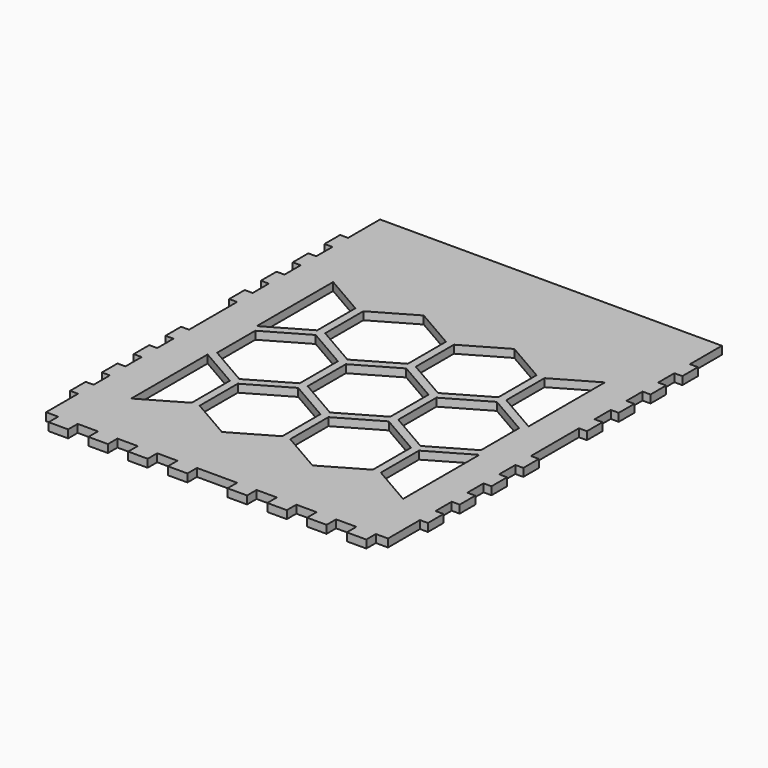
from build123d import *

# Parameters (mm, degrees)
F0_W     = 2
F0_H     = 4.9
F0_W_2   = 4.9
F0_H_2   = 3
F2_DEPTH = 2
F3_DEPTH = 12.5


with BuildPart() as f2:
    # F0 (on Top) → F2 (new body)
    with BuildSketch(Plane.XY):
        with Locations((44, -20)):
            Rectangle(F0_W, F0_H)
        with Locations((-7.5, -54)):
            Rectangle(F0_W_2, F0_H_2)
        with Locations((44, 30)):
            Rectangle(F0_W, F0_H)
        with Locations((17.5, -54)):
            Rectangle(F0_W_2, F0_H_2)
        with Locations((44, 20)):
            Rectangle(F0_W, F0_H)
        with Locations((-44, 30)):
            Rectangle(F0_W, F0_H)
        with Locations((-44, -30)):
            Rectangle(F0_W, F0_H)
        with Locations((44, 10)):
            Rectangle(F0_W, F0_H)
        with Locations((-44, 40)):
            Rectangle(F0_W, F0_H)
        with Locations((-44, -40)):
            Rectangle(F0_W, F0_H)
        with Locations((44, -10)):
            Rectangle(F0_W, F0_H)
        with Locations((-44, 20)):
            Rectangle(F0_W, F0_H)
        with Locations((-44, -20)):
            Rectangle(F0_W, F0_H)
        with Locations((44, 40)):
            Rectangle(F0_W, F0_H)
        with Locations((-44, 10)):
            Rectangle(F0_W, F0_H)
        with Locations((-44, -10)):
            Rectangle(F0_W, F0_H)
        with Locations((-27.5, -54)):
            Rectangle(F0_W_2, F0_H_2)
        with Locations((7.5, -54)):
            Rectangle(F0_W_2, F0_H_2)
        with Locations((-17.5, -54)):
            Rectangle(F0_W_2, F0_H_2)
        with Locations((-37.5, -54)):
            Rectangle(F0_W_2, F0_H_2)
        Polygon((43, 52.5), (-43, 52.5), (-43, 42.45), (-43, 37.55), (-43, 32.45), (-43, 27.55), (-43, 22.45), (-43, 17.55), (-43, 12.45), (-43, 7.55), (-43, -7.55), (-43, -12.45), (-43, -17.55), (-43, -22.45), (-43, -27.55), (-43, -32.45), (-43, -37.55), (-43, -42.45), (-43, -52.5), (-39.95, -52.5), (-35.05, -52.5), (-29.95, -52.5), (-25.05, -52.5), (-19.95, -52.5), (-15.05, -52.5), (-9.95, -52.5), (-5.05, -52.5), (5.05, -52.5), (9.95, -52.5), (15.05, -52.5), (19.95, -52.5), (25.05, -52.5), (29.95, -52.5), (35.05, -52.5), (39.95, -52.5), (43, -52.5), (43, -42.45), (43, -37.55), (43, -32.45), (43, -27.55), (43, -22.45), (43, -17.55), (43, -12.45), (43, -7.55), (43, 7.55), (43, 12.45), (43, 17.55), (43, 22.45), (43, 27.55), (43, 32.45), (43, 37.55), (43, 42.45), align=None)
        with Locations((27.5, -54)):
            Rectangle(F0_W_2, F0_H_2)
        with Locations((44, -30)):
            Rectangle(F0_W, F0_H)
        with Locations((37.5, -54)):
            Rectangle(F0_W_2, F0_H_2)
        with Locations((44, -40)):
            Rectangle(F0_W, F0_H)
    extrude(amount=F2_DEPTH)

    # F1 (on face) → F3 (cut, symmetric)
    with BuildSketch(Plane.XY):
        Polygon((-23.174025, -19.499996), (-33.56633, -13.5), (-33.56633, -37.5), (-23.174025, -31.499996), align=None)
        Polygon((-33.56633, 1.964102), (-23.174025, 7.964102), (-23.174025, 19.964102), (-33.56633, 25.964102), align=None)
        Polygon((-10.78172, 1.964102), (-0.389415, 7.964102), (-0.389415, 19.964102), (-10.78172, 25.964102), (-21.174025, 19.964102), (-21.174025, 7.964102), align=None)
        Polygon((12.00289, 1.964102), (22.395195, 7.964102), (22.395195, 19.964102), (12.00289, 25.964102), (1.610585, 19.964102), (1.610585, 7.964102), align=None)
        Polygon((24.395195, 7.964102), (34.787499, 1.964102), (34.787499, 25.964102), (24.395195, 19.964102), align=None)
        Polygon((34.787499, -37.5), (34.787499, -13.5), (24.395195, -19.5), (24.395195, -31.5), align=None)
        Polygon((-22.174025, -17.767949), (-11.78172, -11.767949), (-11.78172, 0.232051), (-22.174025, 6.232051), (-32.56633, 0.232051), (-32.56633, -11.767949), align=None)
        Polygon((0.610585, -17.767949), (11.00289, -11.767949), (11.00289, 0.232051), (0.610585, 6.232051), (-9.78172, 0.232051), (-9.78172, -11.767949), align=None)
        Polygon((23.395195, -17.767949), (33.787499, -11.767949), (33.787499, 0.232051), (23.395195, 6.232051), (13.00289, 0.232051), (13.00289, -11.767949), align=None)
        Polygon((-10.78172, -37.5), (-0.389415, -31.5), (-0.389415, -19.5), (-10.78172, -13.5), (-21.174025, -19.5), (-21.174025, -31.5), align=None)
        Polygon((12.00289, -37.5), (22.395195, -31.5), (22.395195, -19.5), (12.00289, -13.5), (1.610585, -19.5), (1.610585, -31.5), align=None)
    extrude(amount=F3_DEPTH, both=True, mode=Mode.SUBTRACT)


solid = f2.part
